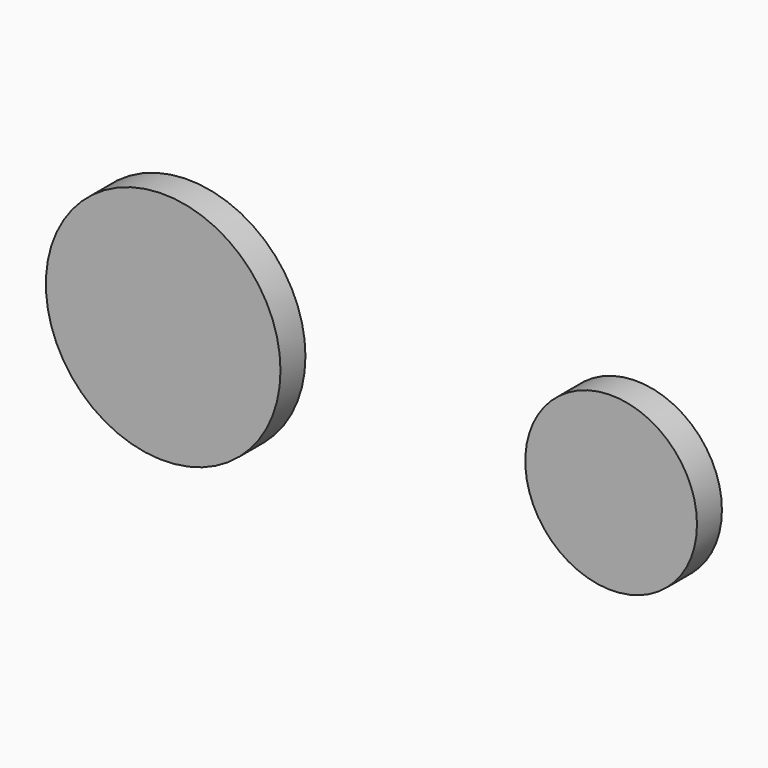
from build123d import *

# Parameters (mm, degrees)
F1_R     = 69.943411
F0_R     = 95.589287
F3_DEPTH = 25.4


with BuildPart() as f3:
    # F1 (on Front) + F0 (on Front) → F3 (new body)
    with BuildSketch(Plane.XZ):
        with Locations((364.982724, 0)):
            Circle(F1_R)
    with BuildSketch(Plane.XZ):
        Circle(F0_R)
    extrude(amount=-F3_DEPTH)


solid = f3.part
